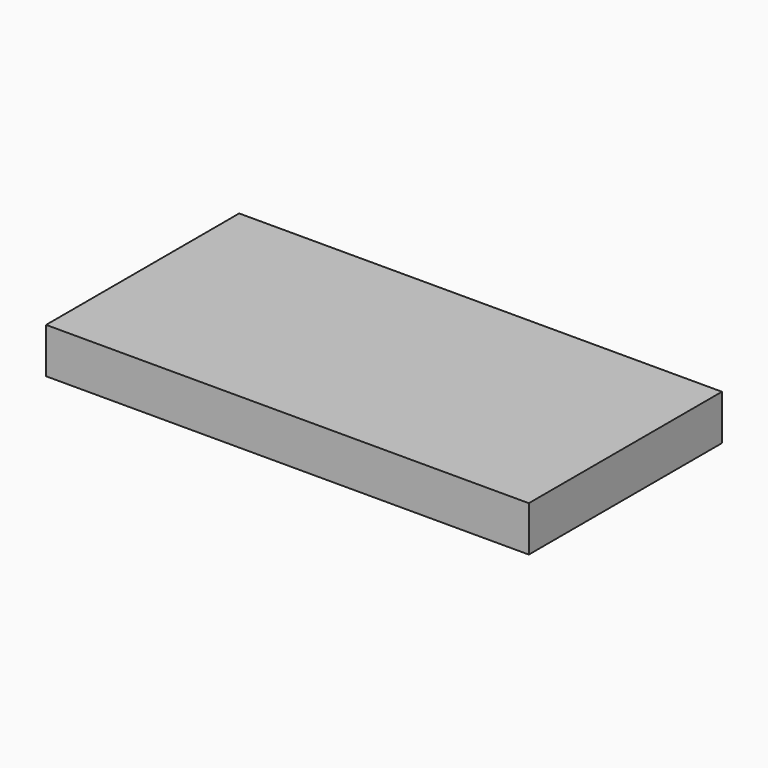
from build123d import *

# Parameters (mm, degrees)
F0_W     = 32
F0_H     = 16
F1_DEPTH = 3
F2_W     = 29
F2_H     = 13
F2_R     = 3.25
F2_R_2   = 2.5
F3_DEPTH = 2


with BuildPart() as f1:
    # F0 (on Top) → F1 (new body)
    with BuildSketch(Plane.XY):
        Rectangle(F0_W, F0_H)
    extrude(amount=F1_DEPTH)

    # F2 (on face) → F3 (cut)
    with BuildSketch(Plane(origin=(0, 0, 0), x_dir=(1, 0, 0), z_dir=(0, 0, -1))):
        Rectangle(F2_W, F2_H)
        with Locations((-8, 0)):
            Circle(F2_R, mode=Mode.SUBTRACT)
        Circle(F2_R, mode=Mode.SUBTRACT)
        with Locations((8, 0)):
            Circle(F2_R, mode=Mode.SUBTRACT)
        with Locations((-8, 0)):
            Circle(F2_R_2)
        Circle(F2_R_2)
        with Locations((8, 0)):
            Circle(F2_R_2)
    extrude(amount=-F3_DEPTH, mode=Mode.SUBTRACT)


solid = f1.part
